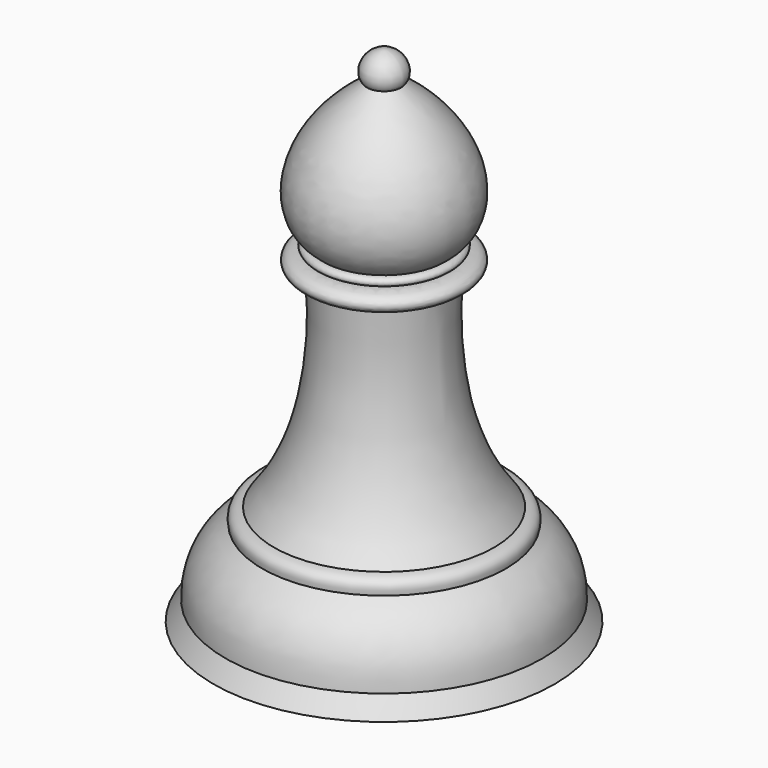
from build123d import *


with BuildPart() as part:
    # Sketch → Revolve (revolve)
    with BuildSketch(Plane.XZ):
        with BuildLine():
            Line((0, 0), (21.951151, 0))
            Line((21.951151, 0), (20.4013, 2.40979))
            add(Edge.make_bspline(
                [(20.4013, 2.40979), (20.4986, 7.95886), (15.6707, 11.0375)],
                knots=[0, 0, 0, 1, 1, 1], degree=2))
            add(Edge.make_bspline(
                [(15.6707, 11.0375), (16.0644, 12.743477), (14.1834, 12.9622)],
                knots=[0, 0, 0, 1, 1, 1], degree=2))
            add(Edge.make_bspline(
                [(14.1834, 12.9622), (6.666199, 22.464972), (7.98136, 39.875568)],
                knots=[0, 0, 0, 1, 1, 1], degree=2))
            add(Edge.make_bspline(
                [(7.98136, 39.875568), (11.045922, 39.425156), (11.266711, 42.321918), (7.945098, 42.12191)],
                knots=[0, 0, 0, 0, 1, 1, 1, 1], degree=3))
            add(Edge.make_bspline(
                [(7.945098, 42.12191), (9.065896, 42.370265), (8.643517, 43.276684), (7.843672, 43.266373)],
                knots=[0, 0, 0, 0, 1, 1, 1, 1], degree=3))
            add(Edge.make_bspline(
                [(7.843672, 43.266373), (12.010397, 46.298336), (11.660451, 54.565788), (2.21194, 61.171)],
                knots=[0, 0, 0, 0, 1, 1, 1, 1], degree=3))
            add(Edge.make_bspline(
                [(2.21194, 61.171), (3.17245, 62.28), (2.341333, 64.685913), (0, 64.8609)],
                knots=[0, 0, 0, 0, 1, 1, 1, 1], degree=3))
            Line((0, 64.8609), (0, 0))
        make_face()
    revolve(axis=Axis((0, 0, 0), (0, 0, 1)))


solid = part.part
